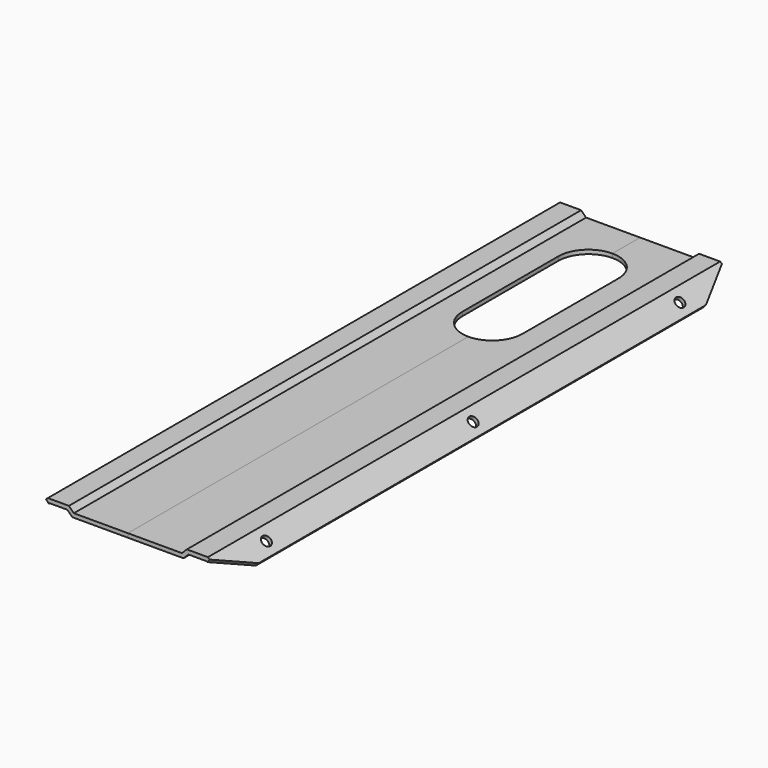
from build123d import *

# Parameters (mm, degrees)
F2_DEPTH = 320
F4_D     = 5
F6_DEPTH = 6.9430588345
F8_DEPTH = 33.2750494181


with BuildPart() as f2:
    # F0 (on Front) → F2 (new body)
    with BuildSketch(Plane.XZ):
        Polygon((-29.4684734557, -5.5029067088), (-39.995180622, -5.5029067088), (-49.1391739397, -13.415253299), (-47.7946186635, -14.8966111875), (-39.25, -7.5029067088), (-30.25, -7.5029067088), (-27.7983543557, -9.954552353), (0, -9.954552353), (0, -7.954552353), (-27.0168278114, -7.954552353), align=None)
    extrude(amount=-F2_DEPTH)

    # F4 (through all)
    with Locations(Plane(origin=(-14.4015917944, 0, 16.6433633349), x_dir=(0.756198331, 0, 0.6543424823), z_dir=(-0.6543424823, 0, 0.756198331))):
        with Locations((-39.8911029679, 289.1673445702), (-39.8911029679, 160), (-39.8911029679, 30.8326554298)):
            Hole(F4_D / 2)

    # F5 (on face) → F6 (cut, through all)
    with BuildSketch(Plane.XY.offset(-7.954552353)):
        with BuildLine():
            ThreePointArc((0, 302.7118790613), (-10.6066017178, 298.3184807791), (-15, 287.7118790613))
            Line((-15, 287.7118790613), (-15, 227.7118790613))
            ThreePointArc((-15, 227.7118790613), (-10.6066017178, 217.1052773435), (0, 212.7118790613))
            Line((0, 212.7118790613), (0, 302.7118790613))
        make_face()
    extrude(amount=-F6_DEPTH, mode=Mode.SUBTRACT)

    # F7 (on face) → F8 (cut, through all)
    with BuildSketch(Plane(origin=(-14.4015917944, 0, 16.6433633349), x_dir=(0.756198331, 0, 0.6543424823), z_dir=(-0.6543424823, 0, 0.756198331))):
        Polygon((-45.9371314651, 299.6921412), (-35.0280794706, 320), (-45.9371314651, 320), align=None)
        Polygon((-35.0280794706, 0), (-45.9371314651, 20.3078588), (-45.9371314651, 0), align=None)
    extrude(amount=-F8_DEPTH, mode=Mode.SUBTRACT)


with BuildPart() as f10_1:
    # F10: instance of F2
    add(f2.part.mirror(Plane(origin=(0, 260, 0), x_dir=(0, 0, 1), z_dir=(-1, 0, 0))))


solid = Compound([f2.part, f10_1.part])
